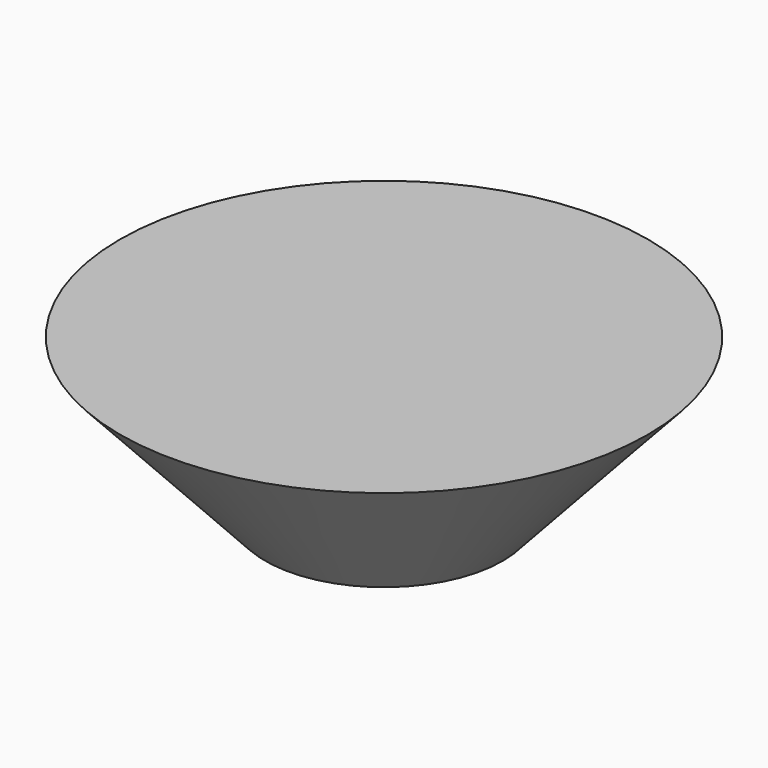
from build123d import *


with BuildPart() as part:
    # Cone → Cone (revolve)
    with BuildSketch(Plane.XZ):
        Polygon((0, 0), (4.5, 0), (10, 6), (0, 6), align=None)
    revolve(axis=Axis((0, 0, 0), (0, 0, 1)))


solid = part.part
